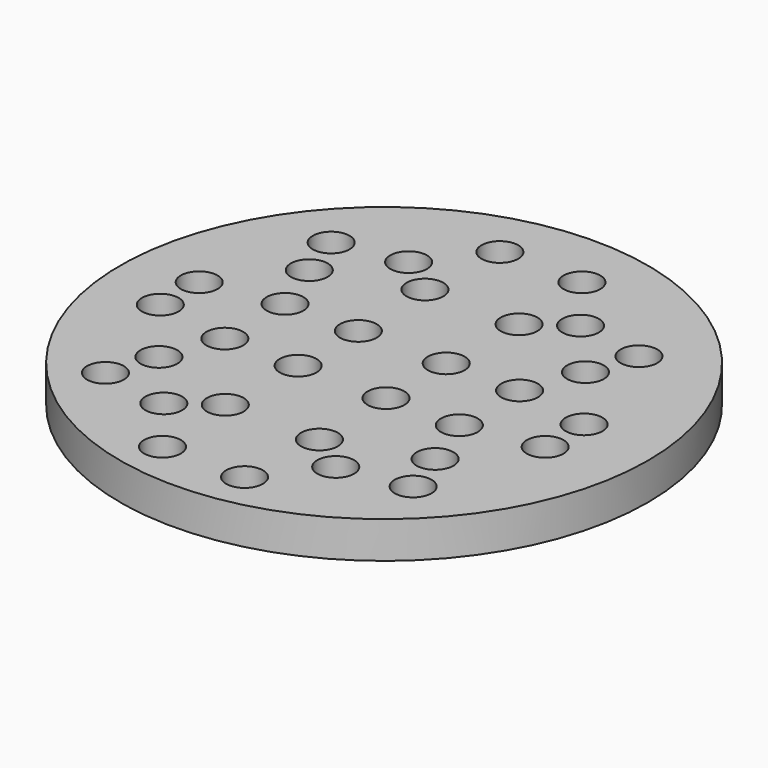
from build123d import *

# Parameters (mm, degrees)
F0_R     = 45.543939
F2_DEPTH = 6.35
F3_D     = 6.35


with BuildPart() as f2:
    # F0 (on Top) → F2 (new body)
    with BuildSketch(Plane.XY):
        Circle(F0_R)
    extrude(amount=-F2_DEPTH)

    # F3 (through all)
    with Locations(Plane.XY):
        with Locations((-9.101805, -22.868802), (-15.81638, -27.738158), (-27.532594, -25.683472), (-24.809956, -17.553446), (-8.565614, -7.831892), (-21.215289, -7.831892), (13.849741, -27.738158), (25.565955, -25.683472), (22.843317, -17.553446), (7.135166, -22.868802), (6.096926, -37.724978), (-8.063565, -37.724978), (6.598975, -7.831892), (19.24865, -7.831892), (32.221985, -5.533049), (32.221985, 2.85738), (19.24865, 5.156223), (6.598975, 5.156223), (7.135166, 20.193133), (13.849741, 25.062489), (25.565955, 23.007803), (22.843317, 14.877777), (6.096926, 35.049309), (-8.565614, 5.156223), (-21.215289, 5.156223), (-34.188624, 2.85738), (-34.188624, -5.533049), (-9.101805, 20.193133), (-24.809956, 14.877777), (-15.81638, 25.062489), (-27.532594, 23.007803), (-8.063565, 35.049309)):
            Hole(F3_D / 2)


solid = f2.part
